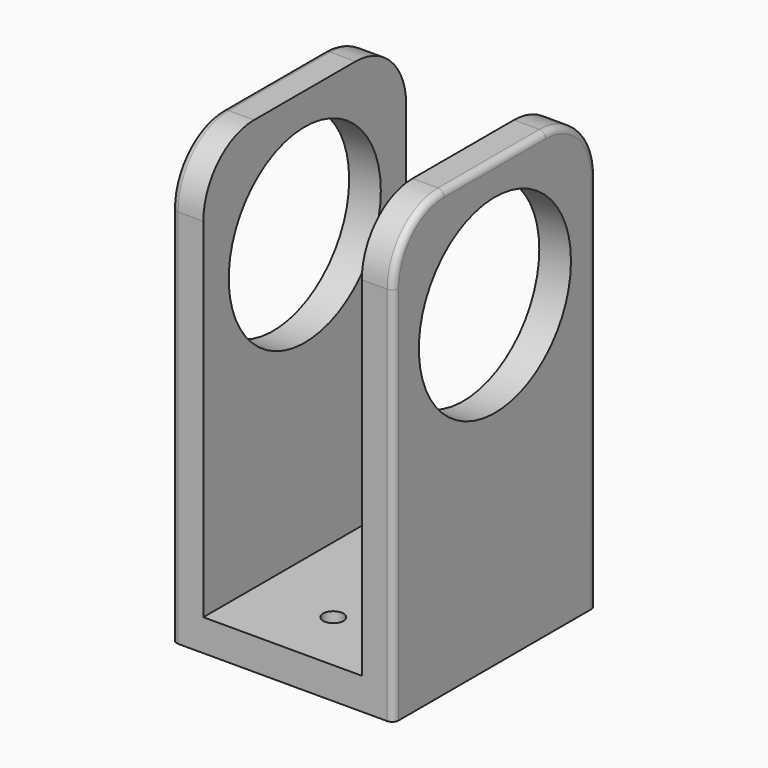
from build123d import *

# Parameters (mm, degrees)
SKETCH_W        = 35
SKETCH_H        = 40
PAD_DEPTH       = 5
SKETCH001_W     = 5
SKETCH001_H     = 40
PAD001_DEPTH    = 65
SKETCH002_R     = 15
POCKET_DEPTH    = 35.001
FILLET_R        = 10
FILLET001_R     = 10
FILLET002_R     = 10
SKETCH003_R     = 1.6
POCKET001_DEPTH = 5.001
FILLET003_R     = 1
FILLET004_R     = 1


with BuildPart() as part:
    # Sketch → Pad (new body)
    with BuildSketch(Plane.XY):
        with Locations((-17.5, 20)):
            Rectangle(SKETCH_W, SKETCH_H)
    extrude(amount=PAD_DEPTH)

    # Sketch001 (on Face6 of Pad) → Pad001 (join)
    with BuildSketch(Plane.XY.offset(5)):
        with Locations((-32.5, 20)):
            Rectangle(SKETCH001_W, SKETCH001_H)
        with Locations((-2.5, 20)):
            Rectangle(SKETCH001_W, SKETCH001_H)
    extrude(amount=PAD001_DEPTH)

    # Sketch002 (on Face9 of Pad001) → Pocket (cut, through all)
    with BuildSketch(Plane.YZ):
        with Locations((20, 50)):
            Circle(SKETCH002_R)
    extrude(amount=-POCKET_DEPTH, mode=Mode.SUBTRACT)

    # Fillet
    fillet_edges = [part.edges().sort_by_distance(p)[0] for p in [
        (-32.5, 0, 70),
    ]]
    fillet(fillet_edges, radius=FILLET_R)

    # Fillet001
    fillet001_edges = [part.edges().sort_by_distance(p)[0] for p in [
        (-2.5, 0, 70),
    ]]
    fillet(fillet001_edges, radius=FILLET001_R)

    # Fillet002
    fillet002_edges = [part.edges().sort_by_distance(p)[0] for p in [
        (-32.5, 40, 70),
        (-2.5, 40, 70),
    ]]
    fillet(fillet002_edges, radius=FILLET002_R)

    # Sketch003 (on Face7 of Fillet002) → Pocket001 (cut, through all)
    with BuildSketch(Plane.XY.offset(5)):
        with Locations((-17.5, 30)):
            Circle(SKETCH003_R)
        with Locations((-17.5, 10)):
            Circle(SKETCH003_R)
    extrude(amount=-POCKET001_DEPTH, mode=Mode.SUBTRACT)

    # Fillet003
    fillet003_edges = [part.edges().sort_by_distance(p)[0] for p in [
        (0, 0, 2.5),
        (0, 0, 32.5),
        (0, 2.928932, 67.071068),
        (0, 20, 70),
        (0, 37.071068, 67.071068),
        (0, 40, 32.5),
        (0, 40, 2.5),
    ]]
    fillet(fillet003_edges, radius=FILLET003_R)

    # Fillet004
    fillet004_edges = [part.edges().sort_by_distance(p)[0] for p in [
        (-35, 0, 32.5),
        (-35, 0, 2.5),
        (-35, 2.928932, 67.071068),
        (-35, 20, 70),
        (-35, 37.071068, 67.071068),
        (-35, 40, 32.5),
        (-35, 40, 2.5),
    ]]
    fillet(fillet004_edges, radius=FILLET004_R)


solid = part.part
